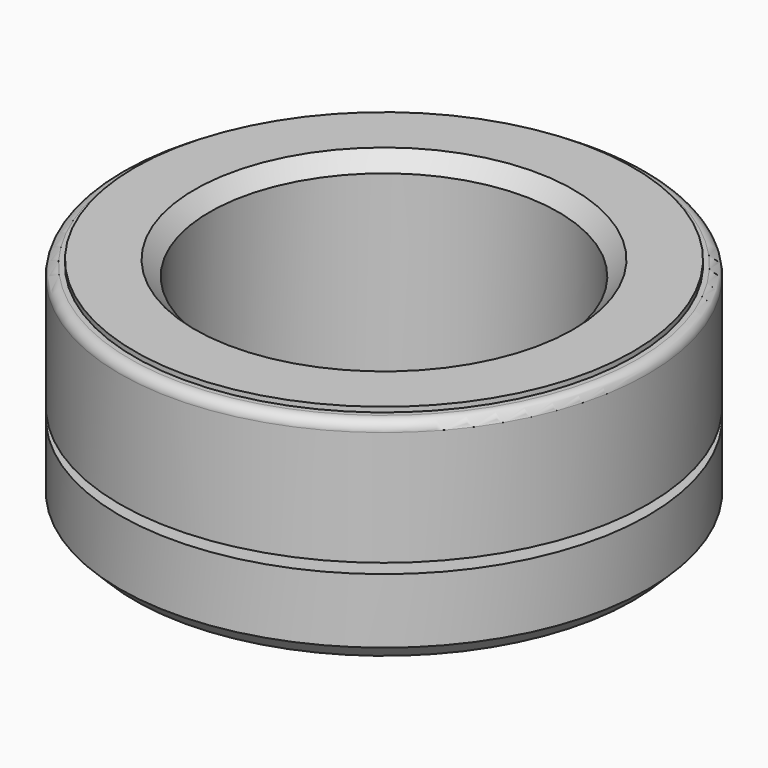
from build123d import *

# Parameters (mm, degrees)
F2_R    = 1
F3_SIZE = 1.5


with BuildPart() as f1:
    # F0 (on Front) → F1 (revolve)
    with BuildSketch(Plane.XZ):
        Polygon((17.5, 22), (17.5, 0), (26.5, 0), (26.5, 8), (21.5, 8), (21.5, 9), (26.5, 9), (26.5, 21.5), (25, 21.5), (25, 22), align=None)
    revolve(axis=Axis((0, 0, 2.07143), (0, 0, 1)))

    # F2
    f2_edges = [f1.edges().sort_by_distance(p)[0] for p in [
        (-26.5, 0, 21.5),
    ]]
    fillet(f2_edges, radius=F2_R)

    # F3
    f3_edges = [f1.edges().sort_by_distance(p)[0] for p in [
        (-26.5, 0, 0),
        (-17.5, 0, 22),
        (-17.5, 0, 0),
    ]]
    chamfer(f3_edges, length=F3_SIZE)


solid = f1.part
